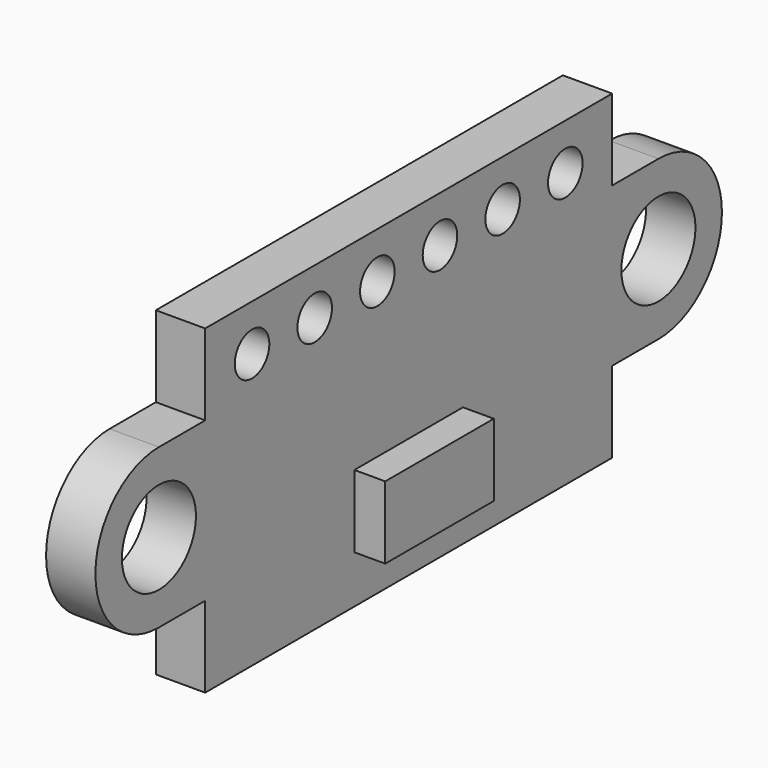
from build123d import *

# Parameters (mm, degrees)
PAD043_DEPTH            = 1.6
SKETCH113_R             = 1.5
POCKET058_DEPTH         = 1.6
SKETCH114_W             = 4.4
SKETCH114_H             = 2.35
PAD044_DEPTH            = 1
SKETCH115_W             = 2.27
SKETCH115_H             = 1.15
SKETCH115_W_2           = 1.6
SKETCH115_H_2           = 3.2
SKETCH115_W_3           = 2
SKETCH115_H_3           = 1.2
SKETCH115_W_4           = 0.7
SKETCH115_H_4           = 1.6
SKETCH115_H_5           = 0.7
PAD045_DEPTH            = 0.5
SKETCH116_R             = 0.7
POCKET059_DEPTH         = 1.6
BODY028_ROLL_ANGLE      = 180
BODY028_PLACEMENT_ANGLE = -90


with BuildPart() as part:
    # Sketch112 → Pad043 (new body)
    with BuildSketch(Plane.XZ):
        Polygon((-8.25, -5.2), (8.25, -5.2), (8.25, -2.575), (12.75, -2.575), (12.75, 2.575), (8.25, 2.575), (8.25, 5.2), (-8.25, 5.2), (-8.25, 2.575), (-12.75, 2.575), (-12.75, -2.575), (-8.25, -2.575), align=None)
    extrude(amount=PAD043_DEPTH)

    # Sketch113 (on Face14 of Pad043) → Pocket058 (cut)
    with BuildSketch(Plane.XZ.offset(1.6)):
        with Locations((-10.125, 0)):
            Circle(SKETCH113_R)
        with Locations((10.125, 0)):
            Circle(SKETCH113_R)
        with BuildLine():
            Line((-12.755, 2.575), (-12.755, -2.575))
            Line((-12.755, -2.575), (-10.125, -2.575))
            ThreePointArc((-10.125, 2.575), (-12.7, 0), (-10.125, -2.575))
            Line((-10.125, 2.575), (-12.755, 2.575))
        make_face()
        with BuildLine():
            Line((10.125, -2.575), (12.755, -2.575))
            Line((12.755, -2.575), (12.755, 2.575))
            Line((12.755, 2.575), (10.125, 2.575))
            ThreePointArc((10.125, -2.575), (12.7, 0), (10.125, 2.575))
        make_face()
    extrude(amount=-POCKET058_DEPTH, mode=Mode.SUBTRACT)

    # Sketch114 (on Face4 of Pocket058) → Pad044 (join)
    with BuildSketch(Plane.XZ.offset(1.6)):
        with Locations((0, 2.475)):
            Rectangle(SKETCH114_W, SKETCH114_H)
    extrude(amount=PAD044_DEPTH)

    # Sketch115 (on Face2 of Pad044) → Pad045 (join)
    with BuildSketch(Plane(origin=(0, 0, 0), x_dir=(1, 0, 0), z_dir=(0, 1, 0))):
        with Locations((-3.245, -2.125)):
            Rectangle(SKETCH115_W, SKETCH115_H)
        with Locations((-0.8, -0.23)):
            Rectangle(SKETCH115_W_2, SKETCH115_H_2)
        with Locations((2.73, 0.77)):
            Rectangle(SKETCH115_W_3, SKETCH115_H_3)
        with Locations((-1.25, -4.13)):
            Rectangle(SKETCH115_W_4, SKETCH115_H_4)
        with Locations((-0.31, -4.13)):
            Rectangle(SKETCH115_W_4, SKETCH115_H_4)
        with Locations((0.63, -4.13)):
            Rectangle(SKETCH115_W_4, SKETCH115_H_4)
        with Locations((-4.54, 1.02)):
            Rectangle(SKETCH115_W_2, SKETCH115_H_5)
        with Locations((5.18, -0.17)):
            Rectangle(SKETCH115_W_4, SKETCH115_H_4)
        with Locations((6.38, -0.17)):
            Rectangle(SKETCH115_W_4, SKETCH115_H_4)
    extrude(amount=PAD045_DEPTH)

    # Sketch116 (on Face2 of Pad045) → Pocket059 (cut)
    with BuildSketch(Plane(origin=(0, 0, 0), x_dir=(1, 0, 0), z_dir=(0, 1, 0))):
        with Locations((-6.35, 3.7)):
            Circle(SKETCH116_R)
        with Locations((-3.81, 3.7)):
            Circle(SKETCH116_R)
        with Locations((-1.27, 3.7)):
            Circle(SKETCH116_R)
        with Locations((1.27, 3.7)):
            Circle(SKETCH116_R)
        with Locations((3.81, 3.7)):
            Circle(SKETCH116_R)
        with Locations((6.35, 3.7)):
            Circle(SKETCH116_R)
    extrude(amount=-POCKET059_DEPTH, mode=Mode.SUBTRACT)


with BuildPart() as part_1:
    # Body028 roll: moved
    add(part.part.rotate(Axis((0, 0, 0), (1, 0, 0)), BODY028_ROLL_ANGLE))


with BuildPart() as part_2:
    # Body028 placement: moved
    add(part_1.part.moved(Location((110.75, -0.75, 41))).rotate(Axis((110.75, -0.75, 41), (0, 0, 1)), BODY028_PLACEMENT_ANGLE))


solid = part_2.part
